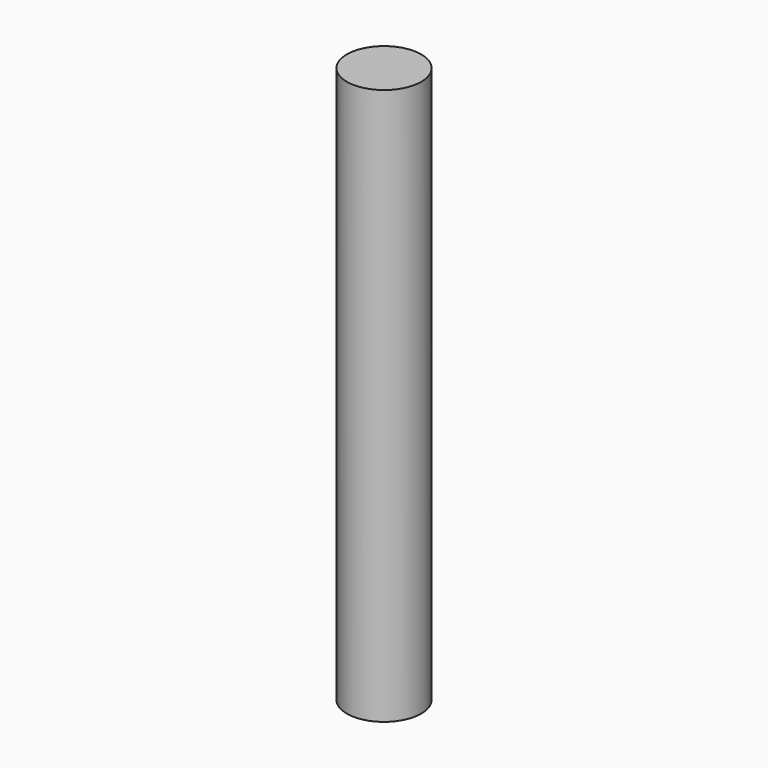
from build123d import *

# Parameters (mm, degrees)
CYLINDER_R     = 1.0033
CYLINDER_DEPTH = 15


with BuildPart() as part:
    # Cylinder → Cylinder (new body)
    with BuildSketch(Plane.XY.offset(-2.5)):
        Circle(CYLINDER_R)
    extrude(amount=CYLINDER_DEPTH)


solid = part.part
